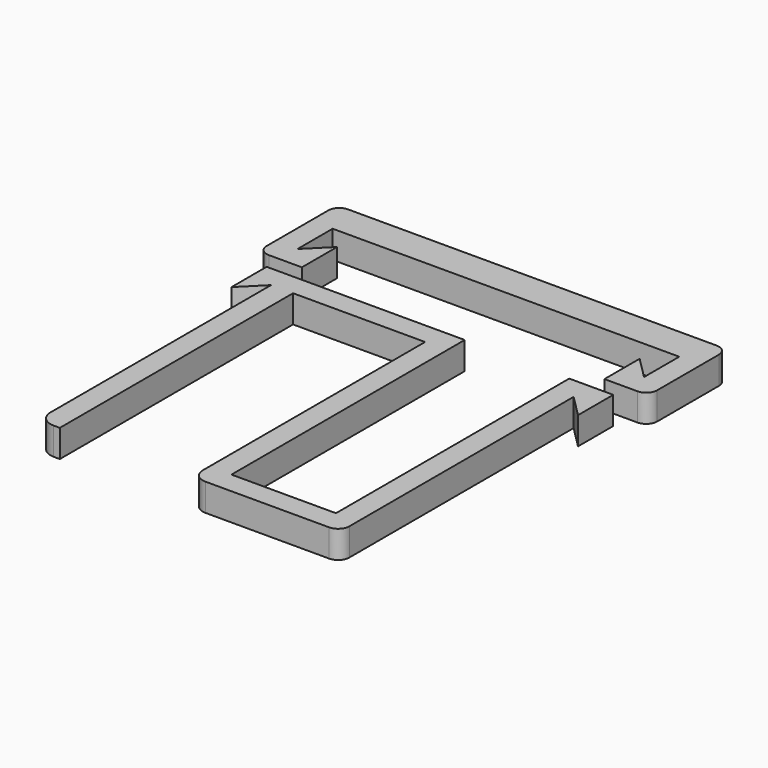
from build123d import *

# Parameters (mm, degrees)
PAD_DEPTH    = 5
PAD001_DEPTH = 5


with BuildPart() as body0000:
    # Sketch → Pad (new body)
    with BuildSketch(Plane.XY):
        with BuildLine():
            Line((0, 0), (0, 53))
            Line((0, 53), (24, 53))
            Line((24, 53), (24, 2.4894))
            ThreePointArc((24, 2.4894), (24.729128, 0.729128), (26.4894, 0))
            Line((26.4894, 0), (48.95835, 0))
            ThreePointArc((48.95835, 0), (50.402015, 0.597985), (51, 2.04165))
            Line((51, 2.04165), (51, 53))
            Line((51, 53), (55, 49))
            Line((55, 49), (55, 57))
            Line((55, 57), (50.996145, 57))
            Line((50.996145, 57), (47, 57))
            Line((47, 57), (47, 4))
            Line((28, 4), (47, 4))
            Line((28, 4), (28, 57))
            Line((28, 57), (-4, 57))
            Line((-8, 57), (-4, 57))
            Line((-8, 49), (-8, 57))
            Line((-4, 53), (-8, 49))
            Line((-4, 53), (-4, 2.885931))
            ThreePointArc((-4, 2.885931), (-3.15473, 0.84527), (-1.114069, 0))
            Line((-1.114069, 0), (0, 0))
        make_face()
    extrude(amount=PAD_DEPTH)


with BuildPart() as body001:
    # Sketch001 → Pad001 (new body)
    with BuildSketch(Plane.XY):
        with BuildLine():
            Line((-8, 72), (55, 72))
            Line((55, 72), (55, 64))
            Line((55, 64), (51, 68))
            Line((51, 68), (51, 60))
            Line((51, 60), (57, 60))
            ThreePointArc((57, 60), (58.414214, 60.585786), (59, 62))
            Line((59, 62), (59, 76))
            ThreePointArc((59, 76), (58.414214, 77.414214), (57, 78))
            Line((57, 78), (-10, 78))
            ThreePointArc((-10, 78), (-11.414214, 77.414214), (-12, 76))
            Line((-12, 76), (-12, 62))
            ThreePointArc((-12, 62), (-11.414214, 60.585786), (-10, 60))
            Line((-10, 60), (-4, 60))
            Line((-4, 60), (-4, 68))
            Line((-4, 68), (-8, 64))
            Line((-8, 64), (-8, 72))
        make_face()
    extrude(amount=PAD001_DEPTH)


solid = Compound([body0000.part, body001.part])
